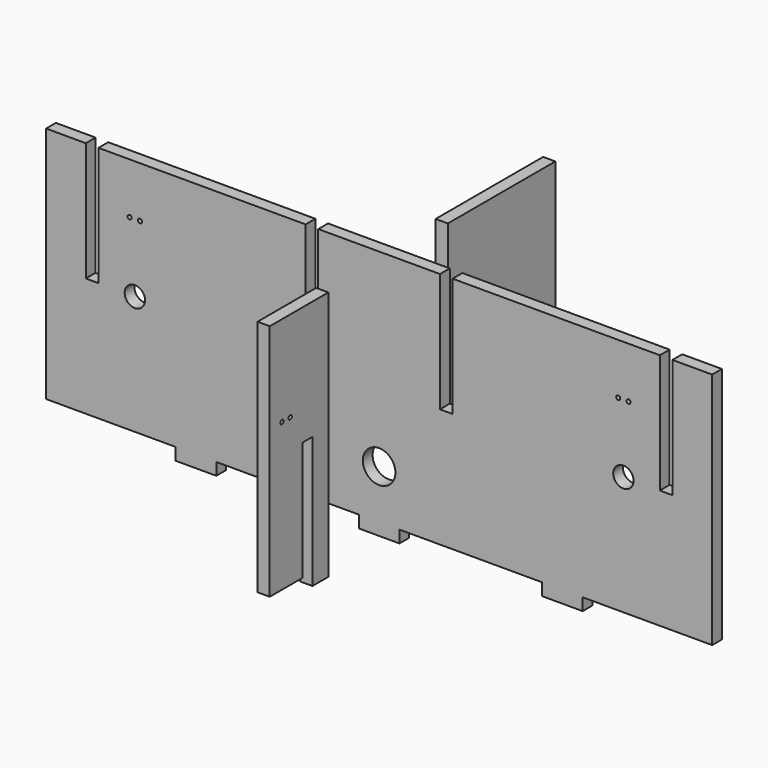
from build123d import *

# Parameters (mm, degrees)
F0_R     = 4
F0_R_2   = 2.5
F0_R_3   = 0.5
F1_DEPTH = 3
F2_R     = 0.5
F4_DEPTH = 3
F3_R     = 3.5
F5_DEPTH = 3


with BuildPart() as f1:
    # F0 (on Front) → F1 (new body)
    with BuildSketch(Plane.XZ):
        Polygon((50, -29.25), (81.8, -29.25), (81.8, 29.25), (72.05, 29.25), (72.05, 0), (68.95, 0), (68.95, 29.25), (18.05, 29.25), (18.05, 0), (14.95, 0), (14.95, 29.25), (-14.95, 29.25), (-14.95, 0), (-18.05, 0), (-18.05, 29.25), (-68.95, 29.25), (-68.95, 0), (-72.05, 0), (-72.05, 29.25), (-81.8, 29.25), (-81.8, -29.25), (-50, -29.25), (-50, -32.25), (-40, -32.25), (-40, -29.25), (-5, -29.25), (-5, -32.25), (5, -32.25), (5, -29.25), (40, -29.25), (40, -32.25), (50, -32.25), align=None)
        with Locations((0, -17.25)):
            Circle(F0_R, mode=Mode.SUBTRACT)
        with Locations((-60, 0)):
            Circle(F0_R_2, mode=Mode.SUBTRACT)
        with Locations((-61.27, 16.75)):
            Circle(F0_R_3, mode=Mode.SUBTRACT)
        with Locations((-58.73, 16.75)):
            Circle(F0_R_3, mode=Mode.SUBTRACT)
        with Locations((60, 0)):
            Circle(F0_R_2, mode=Mode.SUBTRACT)
        with Locations((58.73, 16.75)):
            Circle(F0_R_3, mode=Mode.SUBTRACT)
        with Locations((61.27, 16.75)):
            Circle(F0_R_3, mode=Mode.SUBTRACT)
    extrude(amount=F1_DEPTH)


with BuildPart() as f4:
    # F2 (on Right) → F4 (new body)
    with BuildSketch(Plane.YZ):
        Polygon((-22.333752, -29.25), (-22.333752, 29.25), (-40.333752, 29.25), (-40.333752, -29.25), (-30.333752, -29.25), (-30.333752, 0), (-27.233752, 0), (-27.233752, -29.25), (-27.233752, -32.25), (-22.333752, -32.25), align=None)
        with Locations((-36.603752, 7)):
            Circle(F2_R, mode=Mode.SUBTRACT)
        with Locations((-34.063752, 7)):
            Circle(F2_R, mode=Mode.SUBTRACT)
    extrude(amount=F4_DEPTH)


with BuildPart() as f5:
    # F3 (on Right) → F5 (new body)
    with BuildSketch(Plane.YZ):
        Polygon((47.353302, 29.25), (14.353302, 29.25), (14.353302, -29.25), (24.353302, -29.25), (24.353302, 0), (27.453302, 0), (27.453302, -29.25), (27.853302, -29.25), (27.853302, -32.25), (32.853302, -32.25), (32.853302, -29.25), (42.353302, -29.25), (42.353302, -32.25), (47.353302, -32.25), (47.353302, -29.25), align=None)
        with Locations((19.353302, -17.25)):
            Circle(F3_R, mode=Mode.SUBTRACT)
        Polygon((47.353302, 29.25), (14.353302, 29.25), (14.353302, -29.25), (24.353302, -29.25), (24.353302, 0), (27.453302, 0), (27.453302, -29.25), (27.853302, -29.25), (27.853302, -32.25), (32.853302, -32.25), (32.853302, -29.25), (42.353302, -29.25), (42.353302, -32.25), (47.353302, -32.25), (47.353302, -29.25), align=None)
        with Locations((19.353302, -17.25)):
            Circle(F3_R, mode=Mode.SUBTRACT)
        Polygon((47.353302, 29.25), (14.353302, 29.25), (14.353302, -29.25), (24.353302, -29.25), (24.353302, 0), (27.453302, 0), (27.453302, -29.25), (27.853302, -29.25), (27.853302, -32.25), (32.853302, -32.25), (32.853302, -29.25), (42.353302, -29.25), (42.353302, -32.25), (47.353302, -32.25), (47.353302, -29.25), align=None)
        with Locations((19.353302, -17.25)):
            Circle(F3_R, mode=Mode.SUBTRACT)
    extrude(amount=F5_DEPTH)


solid = Compound([f1.part, f4.part, f5.part])
